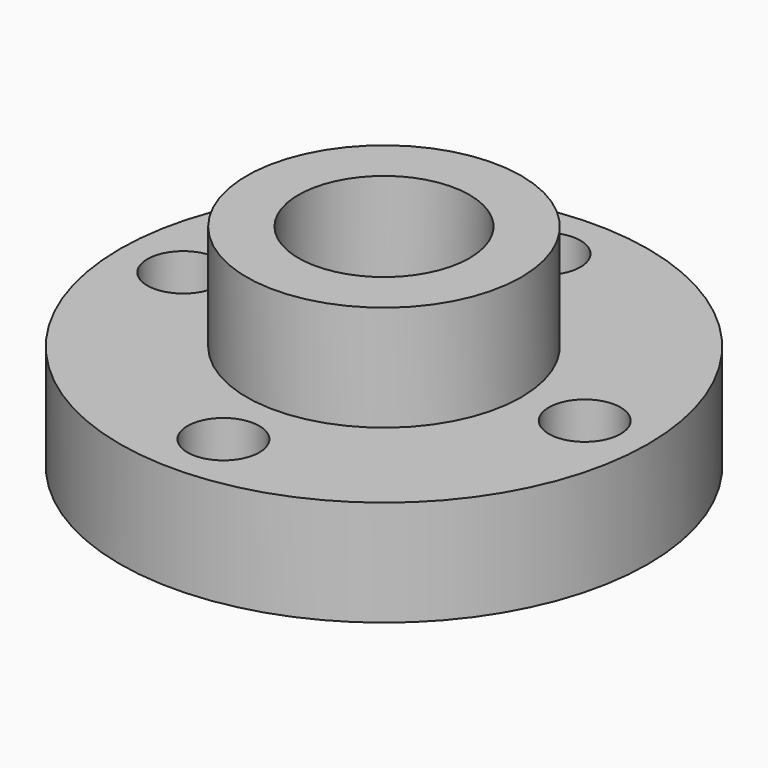
from build123d import *

# Parameters (mm, degrees)
SKETCH_R      = 12.5
SKETCH_R_2    = 1.7
SKETCH_R_3    = 4.15
PAD_DEPTH     = 5
SKETCH001_R   = 6.5
SKETCH001_R_2 = 4.05
PAD001_DEPTH  = 5


with BuildPart() as part:
    # Sketch → Pad (new body)
    with BuildSketch(Plane.XY):
        Circle(SKETCH_R)
        with Locations((0, 9.5)):
            Circle(SKETCH_R_2, mode=Mode.SUBTRACT)
        with Locations((-9.5, 0)):
            Circle(SKETCH_R_2, mode=Mode.SUBTRACT)
        with Locations((0, -9.5)):
            Circle(SKETCH_R_2, mode=Mode.SUBTRACT)
        with Locations((9.5, 0)):
            Circle(SKETCH_R_2, mode=Mode.SUBTRACT)
        Circle(SKETCH_R_3, mode=Mode.SUBTRACT)
    extrude(amount=PAD_DEPTH)

    # Sketch001 → Pad001 (join)
    with BuildSketch(Plane.XY.offset(5)):
        Circle(SKETCH001_R)
        Circle(SKETCH001_R_2, mode=Mode.SUBTRACT)
    extrude(amount=PAD001_DEPTH)


solid = part.part
